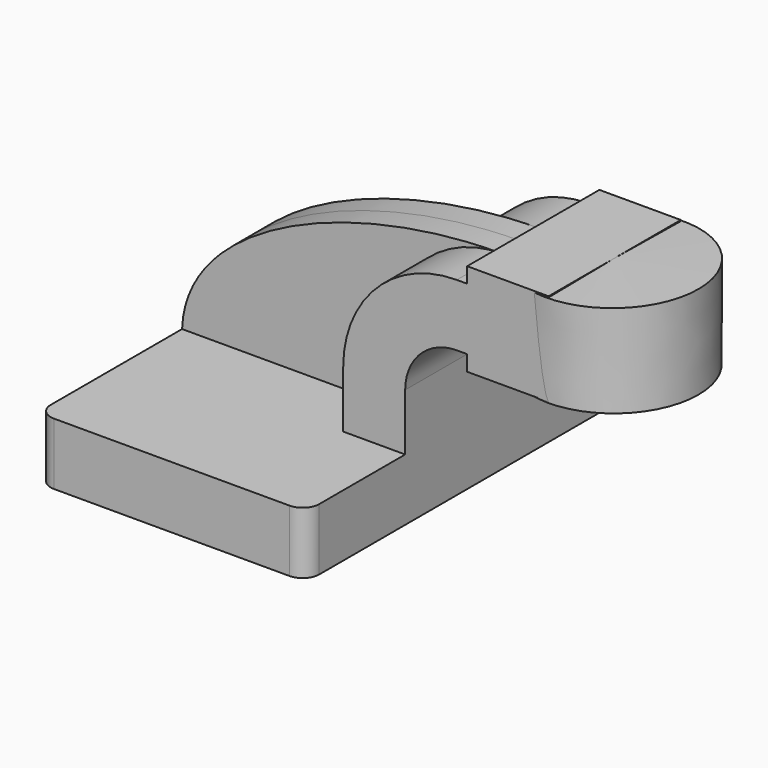
from build123d import *

# Parameters (mm, degrees)
F1_DEPTH = 63.5
F2_DEPTH = 25.4
F3_DEPTH = 7.9375
F5_R     = 5.08


with BuildPart() as f1:
    # F0 (on Front) → F1 (new body, symmetric)
    with BuildSketch(Plane.XZ):
        Polygon((-41.275, 9.525), (-41.275, -9.525), (41.275, -9.525), (41.275, 9.525), (22.225, 9.525), align=None)
    extrude(amount=F1_DEPTH, both=True)

    # F0 (on Front) → F2 (join, symmetric)
    with BuildSketch(Plane.XZ):
        with BuildLine():
            Line((22.225, 9.525), (41.275, 9.525))
            Line((41.275, 9.525), (41.275, 27.0002))
            ThreePointArc((41.275, 27.0002), (45.9246798487, 38.2255201513), (57.15, 42.8752))
            Line((57.15, 42.8752), (60.325, 42.8752))
            Line((60.325, 42.8752), (60.325, 61.9252))
            Line((60.325, 61.9252), (57.15, 61.9252))
            ThreePointArc((57.15, 61.9252), (32.4542956671, 51.6959043329), (22.225, 27.0002))
            Line((22.225, 27.0002), (22.225, 9.525))
        make_face()
        Polygon((60.325, 66.675), (60.325, 61.9252), (60.325, 42.8752), (60.325, 38.1), (85.725, 38.1), (85.3455588222, 66.675), align=None)
    extrude(amount=F2_DEPTH, both=True)

    # F0 (on Front) → F3 (join, symmetric)
    with BuildSketch(Plane.XZ):
        with BuildLine():
            add(Edge.make_bspline(
                [(-41.275, 9.525), (-40.1354804635, 41.2887968123), (11.0718579963, 62.0485283434), (57.15, 61.9252)],
                knots=[0, 0, 0, 0, 111.5045361635, 111.5045361635, 111.5045361635, 111.5045361635], degree=3))
            Line((-41.275, 9.525), (22.225, 9.525))
            Line((22.225, 9.525), (22.225, 27.0002))
            ThreePointArc((22.225, 27.0002), (32.4542956671, 51.6959043329), (57.15, 61.9252))
        make_face()
    extrude(amount=F3_DEPTH, both=True)

    # F0 (on Front) → F4 (revolve)
    with BuildSketch(Plane.XZ):
        Polygon((111.125, 66.675), (85.3455588222, 66.675), (85.725, 38.1), (111.125, 38.1), align=None)
    revolve(axis=Axis((85.5352794111, 0, 52.3875), (-0.0132776108, 0, 0.9999118486)))

    # F5
    f5_edges = [f1.edges().sort_by_distance(p)[0] for p in [
        (41.275, -63.5, 0),
        (41.275, 63.5, 0),
        (-41.275, 63.5, 0),
        (-41.275, -63.5, 0),
    ]]
    fillet(f5_edges, radius=F5_R)


solid = f1.part
